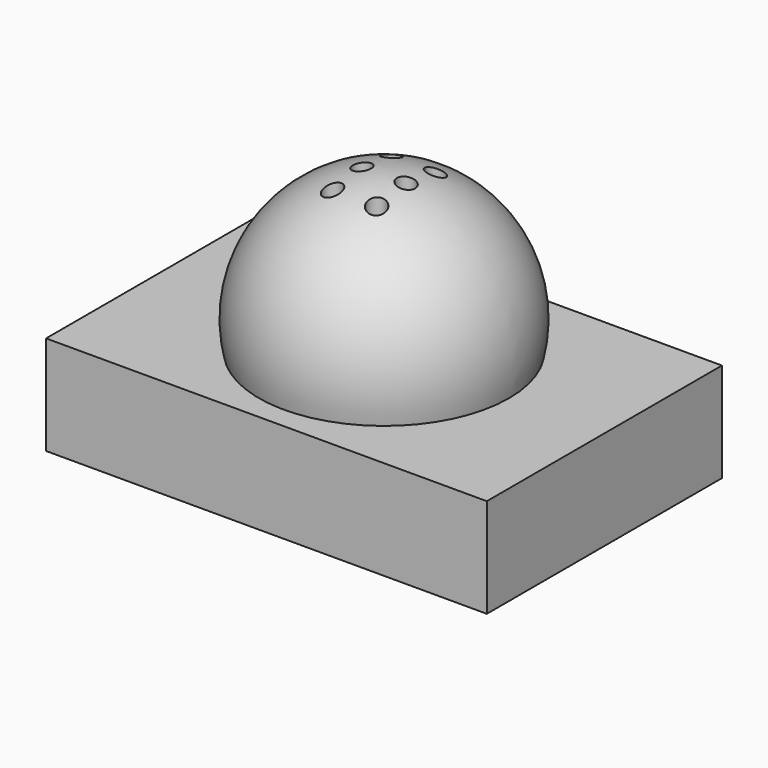
from build123d import *

# Parameters (mm, degrees)
F0_W     = 152.4
F0_H     = 101.6
F1_DEPTH = 34.29
F5_D     = 6.35


with BuildPart() as f1:
    # F0 (on Top) → F1 (new body)
    with BuildSketch(Plane.XY):
        Rectangle(F0_W, F0_H)
    extrude(amount=F1_DEPTH)

    # F2 (on Front) → F3 (revolve)
    with BuildSketch(Plane.XZ):
        with BuildLine():
            Line((0, 88.9), (0, 0))
            ThreePointArc((0, 0), (44.45, 44.45), (0, 88.9))
        make_face()
    revolve(axis=Axis((0, 0, 44.45), (0, 0, 1)))

    # F5 (through all)
    with Locations(Plane(origin=(0, 0, 0), x_dir=(1, 0, 0), z_dir=(0, 0, -1))):
        with Locations((-7.62, 12.7), (7.62, 12.7), (-7.62, 0), (7.62, -12.7), (-7.62, -12.7), (7.62, 0)):
            Hole(F5_D / 2)


solid = f1.part
